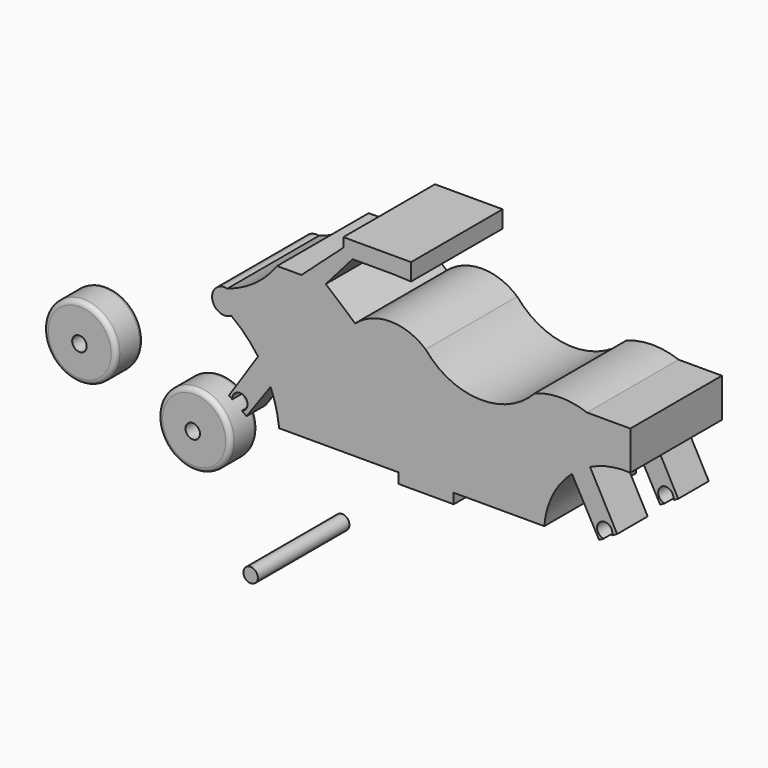
from build123d import *

# Parameters (mm, degrees)
F1_W          = 18.346240744
F1_H          = 3.3933587838
F2_DEPTH      = 38.1
F3_W          = 7.62
F3_H          = 6.35
F4_DEPTH      = 12.7
F5_DEPTH      = 12.7
F5_DEPTH_BACK = 2.54
F7_W          = 7.62
F7_H          = 6.35
F8_DEPTH      = 25.4
F6_R          = 12.065
F9_DEPTH      = 11.43
F10_DEPTH     = 11.43
F11_R         = 1.5748
F12_R         = 1.5875
F13_DEPTH     = 12.7
F14_R         = 2.413
F15_DEPTH     = 38.1
F16_W         = 8.89
F16_H         = 6.35
F17_DEPTH     = 38.1
F18_R         = 12.065
F19_DEPTH     = 11.43
F20_DEPTH     = 38.1
F21_R         = 1.6002
F22_R         = 2.413
F23_DEPTH     = 25.4
F24_R         = 2.413
F25_DEPTH     = 50.8


with BuildPart() as f2:
    # F1 (on offset) → F2 (new body)
    with BuildSketch(Plane.XZ.offset(38.1)):
        with BuildLine():
            ThreePointArc((36.3523699343, 37.9177816212), (17.938739529, 30.168583093), (0, 38.961391896))
            ThreePointArc((0, 38.961391896), (-11.7283733562, 43.325750799), (-23.4567467123, 38.961391896))
            Line((-23.4567467123, 38.961391896), (-33.2215428352, 47.3102629185))
            Line((-33.2215428352, 47.3102629185), (-41.3254767033, 47.3102629185))
            Line((-41.3254767033, 47.3102629185), (-49.4294105714, 47.3102629185))
            ThreePointArc((-49.4294105714, 47.3102629185), (-56.7367498982, 39.9472569025), (-66.0079442432, 35.2936538851))
            Line((-66.0079442432, 35.2936538851), (-64.6862429176, 27.7878297377))
            ThreePointArc((-64.6862429176, 27.7878297377), (-59.8664666899, 23.6224354299), (-55.7805365855, 18.7351122561))
            ThreePointArc((-55.7805365855, 18.7351122561), (-53.4862447079, 15.0812512527), (-51.6049943174, 11.198549562))
            ThreePointArc((-51.6049943174, 11.198549562), (-49.7666461925, 5.7043305896), (-48.7534441054, 0))
            Line((-48.7534441054, 0), (-9.0032480657, 0))
            Line((-9.0032480657, 0), (9.3429926783, 0))
            Line((9.3429926783, 0), (39.4831933081, 0))
            ThreePointArc((39.4831933081, 0), (42.2814677608, 10.0792595054), (48.6897520328, 18.3470103953))
            ThreePointArc((48.6897520328, 18.3470103953), (51.5664674426, 20.5356473215), (54.7089455641, 22.3218316343))
            ThreePointArc((54.7089455641, 22.3218316343), (61.2440855838, 24.5062290424), (68.1189224124, 24.9712727964))
            Line((68.1189224124, 24.9712727964), (68.1189224124, 37.9177816212))
            Line((68.1189224124, 37.9177816212), (53.6801107228, 37.9177816212))
            ThreePointArc((53.6801107228, 37.9177816212), (45.0162403286, 39.4653134808), (36.3523699343, 37.9177816212))
        make_face()
        Polygon((-41.3254767033, 47.3102629185), (-33.2215428352, 47.3102629185), (-24.299332872, 57.4886649847), (-11.0235996544, 57.4886649847), (-11.0235996544, 62.9412010312), (-27.3812003434, 62.9412010312), (-27.3812003434, 59.8593354225), align=None)
        Polygon((-11.0235996544, 62.9412010312), (-11.0235996544, 57.4886649847), (-4.8598670401, 57.251598686), (-4.8598670401, 62.9412010312), align=None)
        with BuildLine():
            Line((63.7368187308, 5.5770496838), (54.7089455641, 22.3218316343))
            ThreePointArc((54.7089455641, 22.3218316343), (51.5664674426, 20.5356473215), (48.6897520328, 18.3470103953))
            Line((48.6897520328, 18.3470103953), (57.713739574, 1.9314482342))
            Line((57.713739574, 1.9314482342), (59.2228821475, 2.7610563614))
            ThreePointArc((59.2228821475, 2.7610563614), (58.1850528969, 7.3793378634), (62.0736384197, 4.6803535699))
            Line((62.0736384197, 4.6803535699), (63.7368187308, 5.5770496838))
        make_face()
        with BuildLine():
            Line((-64.6862429176, 27.7878297377), (-66.0079442432, 35.2936538851))
            ThreePointArc((-66.0079442432, 35.2936538851), (-71.0073326122, 30.5440297536), (-64.6862429176, 27.7878297377))
        make_face()
        with BuildLine():
            ThreePointArc((-51.6049943174, 11.198549562), (-53.4862447079, 15.0812512527), (-55.7805365855, 18.7351122561))
            Line((-55.7805365855, 18.7351122561), (-65.4575312239, 4.1816343999))
            Line((-65.4575312239, 4.1816343999), (-64.3459226379, 3.387893301))
            ThreePointArc((-64.3459226379, 3.387893301), (-60.3361013948, 5.6323350995), (-61.1573117392, 1.1110743286))
            Line((-61.1573117392, 1.1110743286), (-59.6012882888, 0))
            Line((-59.6012882888, 0), (-51.6049943174, 11.198549562))
        make_face()
        with Locations((0.1698723063, -1.6966793919)):
            Rectangle(F1_W, F1_H)
    extrude(amount=F2_DEPTH)

    # F3 (on face) → F4 (cut)
    with BuildSketch(Plane(origin=(12.0247195907, 0, -22.3032937929), x_dir=(0.8802196822, 0, 0.4745664454), z_dir=(0.4745664454, 0, -0.8802196822))):
        with Locations((54.9390829703, 53.975)):
            Rectangle(F3_W, F3_H)
        with Locations((54.9390829703, 60.325)):
            Rectangle(F3_W, F3_H)
    extrude(amount=-F4_DEPTH, mode=Mode.SUBTRACT)

    # F3 (on face) → F5 (cut, two sides)
    with BuildSketch(Plane(origin=(12.0247195907, 0, -22.3032937929), x_dir=(0.8802196822, 0, 0.4745664454), z_dir=(0.4745664454, 0, -0.8802196822))) as f5_sk:
        with Locations((54.9390829703, 53.975)):
            Rectangle(F3_W, F3_H)
        with Locations((54.9390829703, 60.325)):
            Rectangle(F3_W, F3_H)
    extrude(amount=-F5_DEPTH, mode=Mode.SUBTRACT)
    extrude(f5_sk.sketch, amount=F5_DEPTH_BACK, mode=Mode.SUBTRACT)

    # F7 (on Top) → F8 (cut)
    with BuildSketch(Plane.XY):
        with Locations((-58.6418677121, -57.1051912602)):
            Rectangle(F7_W, F7_H)
        Polygon((-62.4518677121, -47.5801912602), (-62.4518677121, -53.9301912602), (-54.8318677121, -53.9301912602), (-54.8689477146, -47.5801912602), align=None)
    extrude(amount=-F8_DEPTH, mode=Mode.SUBTRACT)

    # F7 (on Top) → F13 (cut)
    with BuildSketch(Plane.XY):
        with Locations((-58.6418677121, -57.1051912602)):
            Rectangle(F7_W, F7_H)
        Polygon((-62.4518677121, -47.5801912602), (-62.4518677121, -53.9301912602), (-54.8318677121, -53.9301912602), (-54.8689477146, -47.5801912602), align=None)
    extrude(amount=-F13_DEPTH, mode=Mode.SUBTRACT)

    # F16 (on face) → F17 (cut)
    with BuildSketch(Plane(origin=(-20.1266689027, 0, -28.1867450133), x_dir=(0.8138252345, 0, -0.5811097036), z_dir=(-0.5811097036, 0, -0.8138252345))):
        with Locations((-52.739286169, 58.787003532)):
            Rectangle(F16_W, F16_H)
        with Locations((-52.739286169, 65.137003532)):
            Rectangle(F16_W, F16_H)
    extrude(amount=-F17_DEPTH, mode=Mode.SUBTRACT)

    # F16 (on face) → F20 (cut)
    with BuildSketch(Plane(origin=(-20.1266689027, 0, -28.1867450133), x_dir=(0.8138252345, 0, -0.5811097036), z_dir=(-0.5811097036, 0, -0.8138252345))):
        with Locations((-52.739286169, 58.787003532)):
            Rectangle(F16_W, F16_H)
        with Locations((-52.739286169, 65.137003532)):
            Rectangle(F16_W, F16_H)
    extrude(amount=-F20_DEPTH, mode=Mode.SUBTRACT)


with BuildPart() as f9:
    # F6 (on offset) → F9 (new body)
    with BuildSketch(Plane.XZ.offset(38.1)):
        with Locations((-98.3701199293, -27.5202151388)):
            Circle(F6_R)
    extrude(amount=F9_DEPTH)

    # F6 (on offset) → F10 (join)
    with BuildSketch(Plane.XZ.offset(38.1)):
        with Locations((-98.3701199293, -27.5202151388)):
            Circle(F6_R)
    extrude(amount=F10_DEPTH)

    # F11
    f11_edges = [f9.edges().sort_by_distance(p)[0] for p in [
        (-110.43512, -49.53, -27.520215),
    ]]
    fillet(f11_edges, radius=F11_R)

    # F12
    f12_edges = [f9.edges().sort_by_distance(p)[0] for p in [
        (-110.43512, -38.1, -27.520215),
    ]]
    fillet(f12_edges, radius=F12_R)

    # F24 (on Front) → F25 (cut)
    with BuildSketch(Plane.XZ):
        with Locations((-98.8455787301, -27.9980506748)):
            Circle(F24_R)
    extrude(amount=F25_DEPTH, mode=Mode.SUBTRACT)


with BuildPart() as f15:
    # F14 (on offset) → F15 (new body)
    with BuildSketch(Plane.XZ.offset(38.1)):
        with Locations((-58.2486279309, -46.1094640195)):
            Circle(F14_R)
    extrude(amount=F15_DEPTH)


with BuildPart() as f19:
    # F18 (on offset) → F19 (new body)
    with BuildSketch(Plane.XZ.offset(38.1)):
        with Locations((-136.4395618439, -14.2379999161)):
            Circle(F18_R)
    extrude(amount=F19_DEPTH)

    # F21
    f21_edges = [f19.edges().sort_by_distance(p)[0] for p in [
        (-148.504562, -38.1, -14.238),
        (-148.504562, -49.53, -14.238),
    ]]
    fillet(f21_edges, radius=F21_R)

    # F22 (on offset) → F23 (cut)
    with BuildSketch(Plane.XZ.offset(38.1)):
        with Locations((-136.5435421467, -14.6257244051)):
            Circle(F22_R)
    extrude(amount=F23_DEPTH, mode=Mode.SUBTRACT)


solid = Compound([f2.part, f9.part, f15.part, f19.part])
